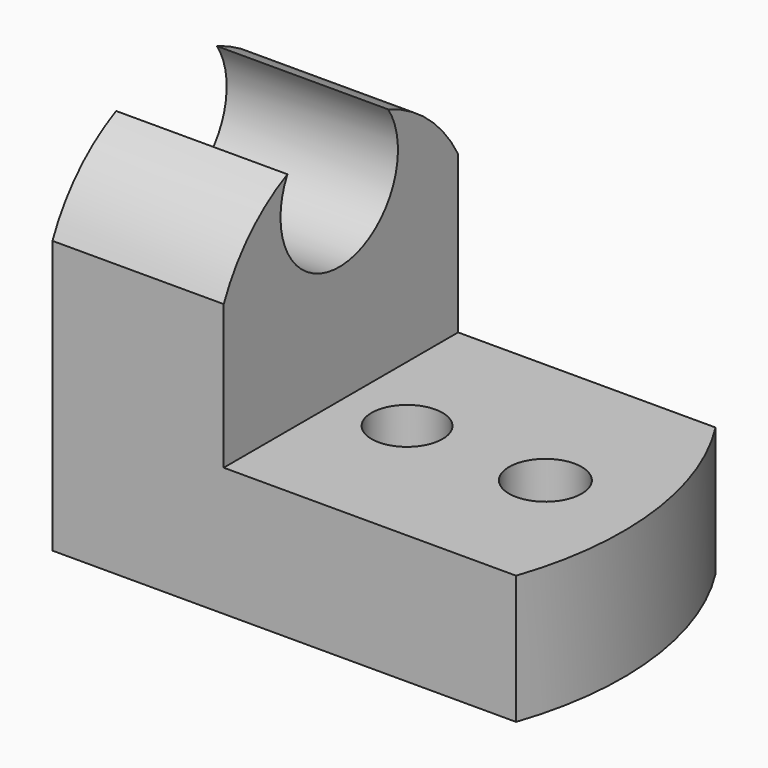
from build123d import *

# Parameters (mm, degrees)
F1_DEPTH  = 38.1
F3_DEPTH  = 25.4
F4_R      = 4.6186777809
F4_R_2    = 4.7220992833
F5_DEPTH  = 25.4
F7_DEPTH  = 25.4
F9_DEPTH  = 25.4
F11_DEPTH = 25.4


with BuildPart() as f1:
    # F0 (on Front) → F1 (new body)
    with BuildSketch(Plane.XZ):
        Polygon((0, 49.3678711355), (0, 0), (68.8029304147, 0), (68.8029304147, 16.7396813631), (22.272285074, 16.7396813631), (22.272285074, 49.3678711355), align=None)
    extrude(amount=F1_DEPTH)

    # F2 (on face) → F3 (cut)
    with BuildSketch(Plane.XY.offset(16.7396813631)):
        with BuildLine():
            ThreePointArc((55.7516478002, 0), (66.4469620448, -18.046107265), (60.291223228, -38.1))
            Line((60.291223228, -38.1), (68.8029304147, -38.1))
            Line((68.8029304147, -38.1), (68.8029304147, 0))
            Line((68.8029304147, 0), (55.7516478002, 0))
        make_face()
    extrude(amount=-F3_DEPTH, mode=Mode.SUBTRACT)

    # F4 (on face) → F5 (cut)
    with BuildSketch(Plane.XY.offset(16.7396813631)):
        with Locations((31.0677159578, -19.2931909114)):
            Circle(F4_R)
        with Locations((49.5097339153, -19.8606383055)):
            Circle(F4_R_2)
    extrude(amount=-F5_DEPTH, mode=Mode.SUBTRACT)

    # F6 (on face) → F7 (cut)
    with BuildSketch(Plane(origin=(0, 0, 0), x_dir=(0, -1, 0), z_dir=(-1, 0, 0))):
        with BuildLine():
            ThreePointArc((0, 37.1677689254), (19.5787852864, 48.1513039346), (38.1, 35.465426743))
            Line((38.1, 35.465426743), (38.1, 49.3678711355))
            Line((38.1, 49.3678711355), (0, 49.3678711355))
            Line((0, 49.3678711355), (0, 37.1677689254))
        make_face()
    extrude(amount=-F7_DEPTH, mode=Mode.SUBTRACT)

    # F8 (on face) → F9 (cut)
    with BuildSketch(Plane.YZ.offset(22.272285074)):
        with BuildLine():
            ThreePointArc((-11.3676669021, 46.8945718353), (-19.633075345, 48.1488087071), (-27.7434336329, 46.1209587865))
            ThreePointArc((-27.7434336329, 46.1209587865), (-18.8743086198, 32.0873075282), (-11.3676669021, 46.8945718352))
        make_face()
    extrude(amount=-F9_DEPTH, mode=Mode.SUBTRACT)

    # F10 (on face) → F11 (cut)
    with BuildSketch(Plane.XY.offset(16.7396813631)):
        with BuildLine():
            ThreePointArc((55.7516478002, 0), (62.3960801541, -18.5287656348), (60.291223228, -38.1))
            ThreePointArc((60.291223228, -38.1), (66.4469620448, -18.046107265), (55.7516478002, 0))
        make_face()
    extrude(amount=-F11_DEPTH, mode=Mode.SUBTRACT)


solid = f1.part
